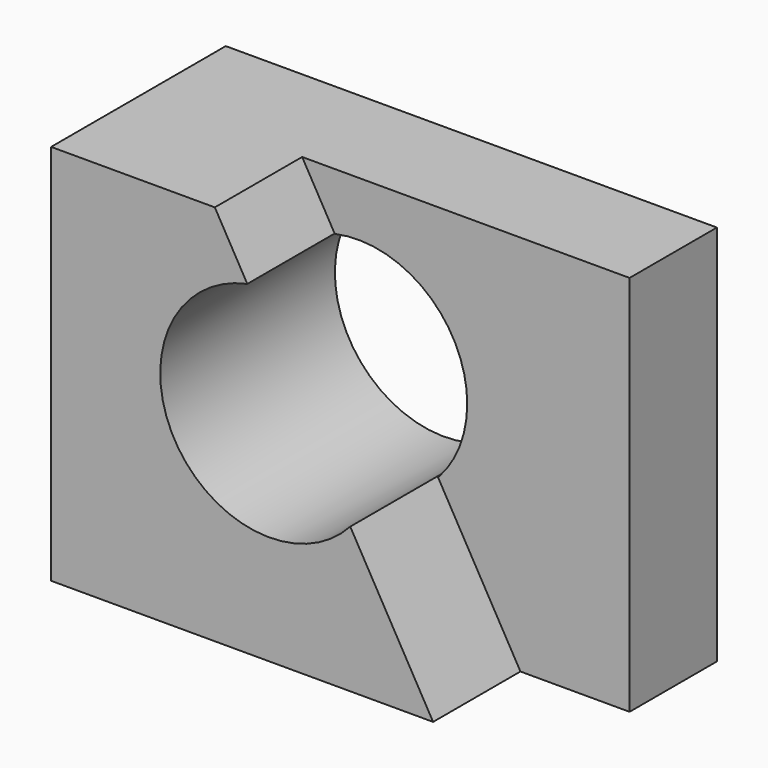
from build123d import *

# Parameters (mm, degrees)
F0_W     = 57.15
F0_H     = 44.45
F1_DEPTH = 25.4
F3_DEPTH = 12.7
F5_DEPTH = 25.4
F7_DEPTH = 25.4


with BuildPart() as f1:
    # F0 (on Front) → F1 (new body)
    with BuildSketch(Plane.XZ):
        with Locations((-31.7926909775, 33.1113487823)):
            Rectangle(F0_W, F0_H)
    extrude(amount=F1_DEPTH)

    # F2 (on face) → F3 (cut)
    with BuildSketch(Plane.XZ.offset(25.4)):
        Polygon((-3.2176909775, 55.3363487823), (-41.3176909775, 55.3363487823), (-15.9176909775, 10.8863487823), (-3.2176909775, 10.8863487823), align=None)
    extrude(amount=-F3_DEPTH, mode=Mode.SUBTRACT)

    # F4 (on face) → F5 (cut)
    with BuildSketch(Plane.XZ.offset(12.7)):
        with BuildLine():
            ThreePointArc((-25.4969780125, 27.6501010936), (-22.985960662, 31.6477533043), (-22.1085421056, 36.2863487823))
            ThreePointArc((-22.1085421056, 36.2863487823), (-26.8450546809, 46.1794205013), (-37.5215921901, 48.6931759045))
            Line((-37.5215921901, 48.6931759045), (-25.4969780125, 27.6501010936))
        make_face()
    extrude(amount=-F5_DEPTH, mode=Mode.SUBTRACT)

    # F6 (on face) → F7 (cut)
    with BuildSketch(Plane.XZ.offset(25.4)):
        with BuildLine():
            Line((-25.5580813343, 27.7570319068), (-37.5388390822, 48.7233579656))
            ThreePointArc((-37.5388390822, 48.7233579656), (-45.9943788824, 29.9853842652), (-25.5580813343, 27.7570319068))
        make_face()
    extrude(amount=-F7_DEPTH, mode=Mode.SUBTRACT)


solid = f1.part
